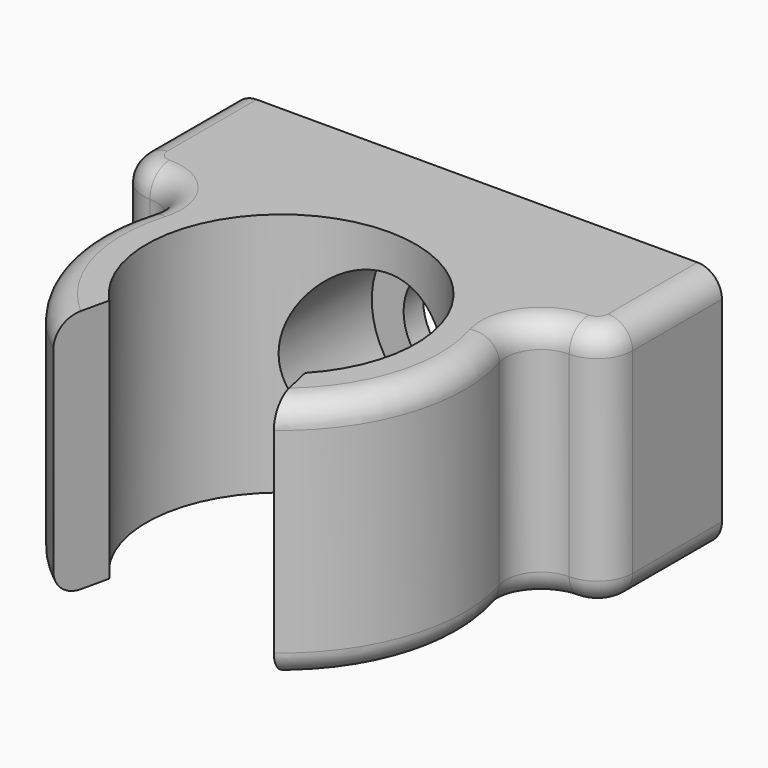
from build123d import *

# Parameters (mm, degrees)
CYLINDER_R          = 3.5
CYLINDER_DEPTH      = 5
CYLINDER_ROLL_ANGLE = 90
PAD_DEPTH           = 10
FILLET_R            = 1.437
SKETCH001_R         = 2.2
POCKET_DEPTH        = 5
FILLET001_R         = 1


with BuildPart() as cylinder:
    # Cylinder → Cylinder (new body)
    with BuildSketch(Plane.XY):
        Circle(CYLINDER_R)
    extrude(amount=CYLINDER_DEPTH)


with BuildPart() as cylinder_1:
    # Cylinder roll: moved
    add(cylinder.part.rotate(Axis((0, 0, 0), (1, 0, 0)), CYLINDER_ROLL_ANGLE))


with BuildPart() as cylinder_2:
    # Cylinder placement: moved
    add(cylinder_1.part.moved(Location((0, 9, 5))))


with BuildPart() as fillet001:
    # Sketch → Pad (new body)
    with BuildSketch(Plane.XY):
        with BuildLine():
            ThreePointArc((4, -3.774917), (0, 5.5), (-4, -3.774917))
            Line((-4, -3.774917), (-4.5, -6))
            ThreePointArc((-6.344289, 4), (-7.375612, -1.360276), (-4.5, -6))
            Line((-6.344289, 4), (-10, 4))
            Line((-10, 4), (-10, 10))
            Line((-10, 10), (10, 10))
            Line((10, 10), (10, 4))
            Line((10, 4), (6.344289, 4))
            ThreePointArc((4.5, -6), (7.375612, -1.360276), (6.344289, 4))
            Line((4, -3.774917), (4.5, -6))
        make_face()
    extrude(amount=PAD_DEPTH)

    # Fillet
    fillet_edges = [fillet001.edges().sort_by_distance(p)[0] for p in [
        (-6.344289, 4, 5),
        (-10, 4, 5),
        (10, 4, 5),
        (6.344289, 4, 5),
    ]]
    fillet(fillet_edges, radius=FILLET_R)

    # Sketch001 → Pocket (cut)
    with BuildSketch(Plane(origin=(0, 10, 0), x_dir=(-1, 0, 0), z_dir=(0, 1, 0))):
        with Locations((0, 5)):
            Circle(SKETCH001_R)
    extrude(amount=-POCKET_DEPTH, mode=Mode.SUBTRACT)

    # Cut: cut Cylinder
    add(cylinder_2.part, mode=Mode.SUBTRACT)

    # Fillet001
    fillet001_edges = [fillet001.edges().sort_by_distance(p)[0] for p in [
        (10, 7.7185, 10),
        (10, 7.7185, 0),
        (-10, 7.7185, 0),
        (-10, 7.7185, 10),
    ]]
    fillet(fillet001_edges, radius=FILLET001_R)


solid = fillet001.part
